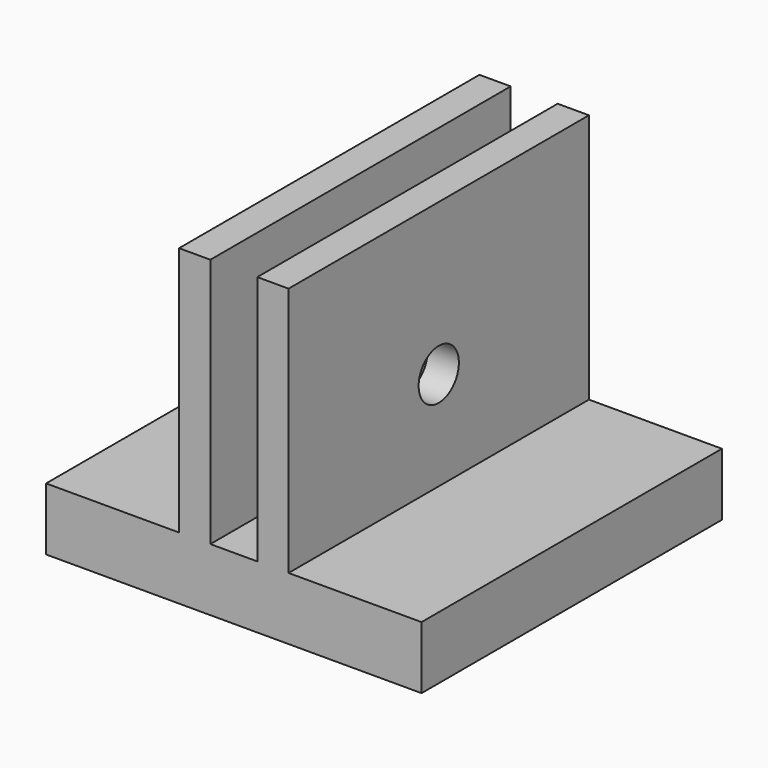
from build123d import *

# Parameters (mm, degrees)
F0_W     = 152.4
F0_H     = 152.4
F1_DEPTH = 25.4
F2_W     = 12.7
F2_H     = 152.4
F3_DEPTH = 101.6
F5_D     = 20.4216
F5_DEPTH = 12.7
F5_TIP   = 6.1352676088
F7_D     = 5
F7_DEPTH = 25.4
F7_TIP   = 1.5021515476
F8_D     = 12.7
F8_DEPTH = 12.7
F8_TIP   = 3.8154649308
F9_D     = 9.525
F9_DEPTH = 44.45
F9_START = 31.75
F9_TIP   = 2.8615986981


with BuildPart() as f1:
    # F0 (on Top) → F1 (new body)
    with BuildSketch(Plane.XY):
        Rectangle(F0_W, F0_H)
    extrude(amount=F1_DEPTH)

    # F2 (on face) → F3 (join)
    with BuildSketch(Plane.XY.offset(25.4)):
        with Locations((-15.875, 0)):
            Rectangle(F2_W, F2_H)
        with Locations((15.875, 0)):
            Rectangle(F2_W, F2_H)
    extrude(amount=F3_DEPTH)

    # F5
    with Locations(Plane.YZ.offset(22.225)):
        with Locations((0, 65.4)):
            Hole(F5_D / 2, depth=F5_DEPTH)
            with Locations((0, 0, -(F5_DEPTH + F5_TIP / 2))):  # 118° drill point
                Cone(0, F5_D / 2, F5_TIP, mode=Mode.SUBTRACT)

    # F7
    with Locations(Plane(origin=(0, 0, 0), x_dir=(1, 0, 0), z_dir=(0, 0, -1))):
        with Locations((1.525, 0)):
            Hole(F7_D / 2, depth=F7_DEPTH)
            with Locations((0, 0, -(F7_DEPTH + F7_TIP / 2))):  # 118° drill point
                Cone(0, F7_D / 2, F7_TIP, mode=Mode.SUBTRACT)

    # F8
    with Locations(Plane(origin=(0, 0, 0), x_dir=(1, 0, 0), z_dir=(0, 0, -1))):
        with Locations((1.525, 0)):
            Hole(F8_D / 2, depth=F8_DEPTH)
            with Locations((0, 0, -(F8_DEPTH + F8_TIP / 2))):  # 118° drill point
                Cone(0, F8_D / 2, F8_TIP, mode=Mode.SUBTRACT)

    # F9
    # its depths count from where the whole tool has entered the part; down to there all is cleared
    with Locations(Plane.YZ.offset(22.225).offset(-F9_START)):
        with Locations((0, 65.4)):
            Hole(F9_D / 2, depth=F9_DEPTH)
            with Locations((0, 0, -(F9_DEPTH + F9_TIP / 2))):  # 118° drill point
                Cone(0, F9_D / 2, F9_TIP, mode=Mode.SUBTRACT)


solid = f1.part
